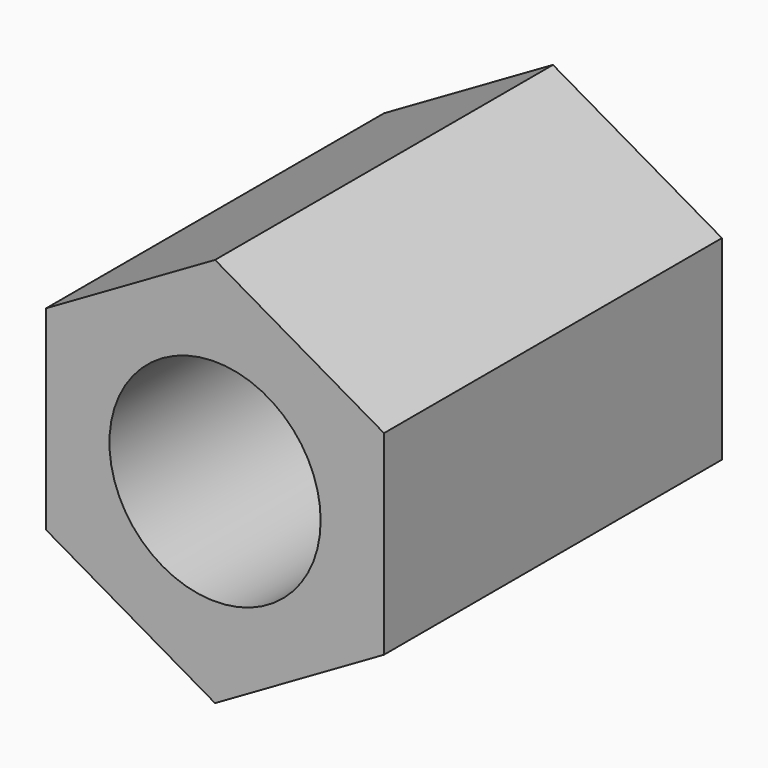
from build123d import *

# Parameters (mm, degrees)
SKETCH_R  = 1.75
PAD_DEPTH = 7


with BuildPart() as part:
    # Sketch → Pad (new body)
    with BuildSketch(Plane.XZ):
        Polygon((2.8, 1.616581), (0, 3.233162), (-2.8, 1.616581), (-2.8, -1.616581), (0, -3.233162), (2.8, -1.616581), align=None)
        Circle(SKETCH_R, mode=Mode.SUBTRACT)
    extrude(amount=PAD_DEPTH)


solid = part.part
